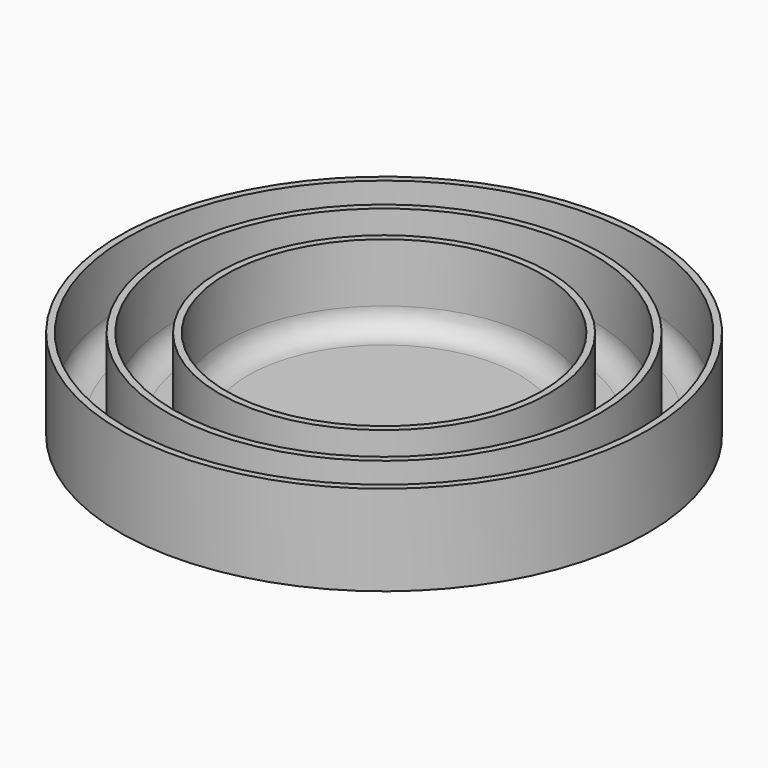
from build123d import *

# Parameters (mm, degrees)
F0_R     = 58.4474221673
F0_R_2   = 56.9474221673
F0_R_3   = 48
F0_R_4   = 46.5
F0_R_5   = 36.5
F0_R_6   = 35
F1_DEPTH = 2
F2_DEPTH = 20
F3_R     = 5


with BuildPart() as f1:
    # F0 (on Top) → F1 (new body)
    with BuildSketch(Plane.XY):
        Circle(F0_R)
        Circle(F0_R_2, mode=Mode.SUBTRACT)
        Circle(F0_R_2)
        Circle(F0_R_3, mode=Mode.SUBTRACT)
        Circle(F0_R_3)
        Circle(F0_R_4, mode=Mode.SUBTRACT)
        Circle(F0_R_4)
        Circle(F0_R_5, mode=Mode.SUBTRACT)
        Circle(F0_R_5)
        Circle(F0_R_6, mode=Mode.SUBTRACT)
        Circle(F0_R_6)
    extrude(amount=F1_DEPTH)

    # F0 (on Top) → F2 (join)
    with BuildSketch(Plane.XY):
        Circle(F0_R)
        Circle(F0_R_2, mode=Mode.SUBTRACT)
        Circle(F0_R_3)
        Circle(F0_R_4, mode=Mode.SUBTRACT)
        Circle(F0_R_5)
        Circle(F0_R_6, mode=Mode.SUBTRACT)
    extrude(amount=F2_DEPTH)

    # F3
    f3_edges = [f1.edges().sort_by_distance(p)[0] for p in [
        (-35, 0, 2),
        (-46.5, 0, 2),
        (-56.947422, 0, 2),
    ]]
    fillet(f3_edges, radius=F3_R)


solid = f1.part
